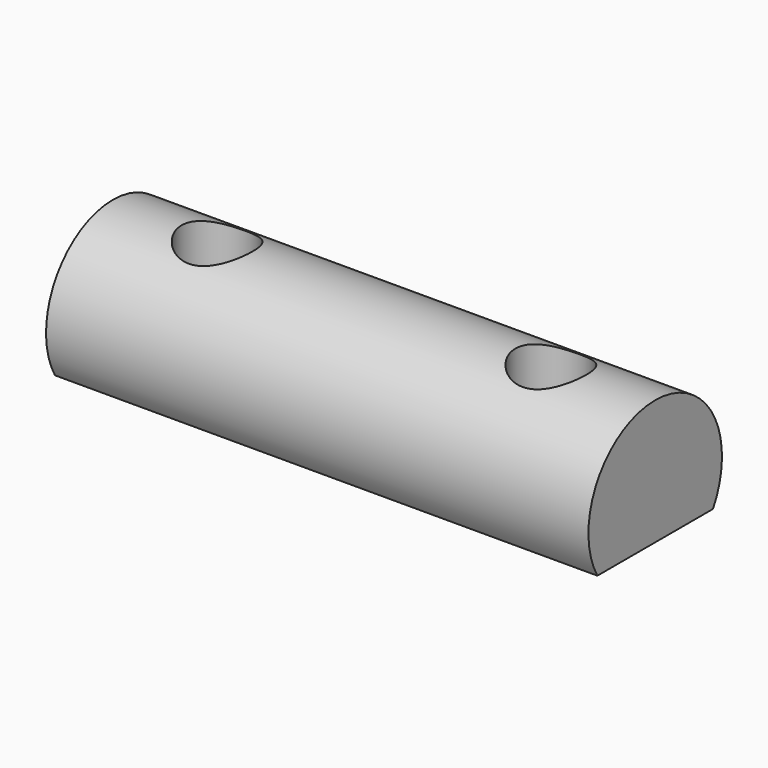
from build123d import *

# Parameters (mm, degrees)
SKETCH_R        = 4
PAD_DEPTH       = 26
SKETCH001_W     = 4
SKETCH001_H     = 12
POCKET_DEPTH    = 26
SKETCH002_R     = 1.7
POCKET001_DEPTH = 7


with BuildPart() as part:
    # Sketch → Pad (new body)
    with BuildSketch(Plane.ZY):
        Circle(SKETCH_R)
    extrude(amount=PAD_DEPTH)

    # Sketch001 → Pocket (cut)
    with BuildSketch(Plane.ZY.offset(26)):
        with Locations((-4, -1)):
            Rectangle(SKETCH001_W, SKETCH001_H)
    extrude(amount=-POCKET_DEPTH, mode=Mode.SUBTRACT)

    # Sketch002 → Pocket001 (cut)
    with BuildSketch(Plane(origin=(0, 0, -2), x_dir=(0, -1, 0), z_dir=(0, 0, -1))):
        with Locations((0, 21)):
            Circle(SKETCH002_R)
        with Locations((0, 5)):
            Circle(SKETCH002_R)
    extrude(amount=-POCKET001_DEPTH, mode=Mode.SUBTRACT)


solid = part.part
